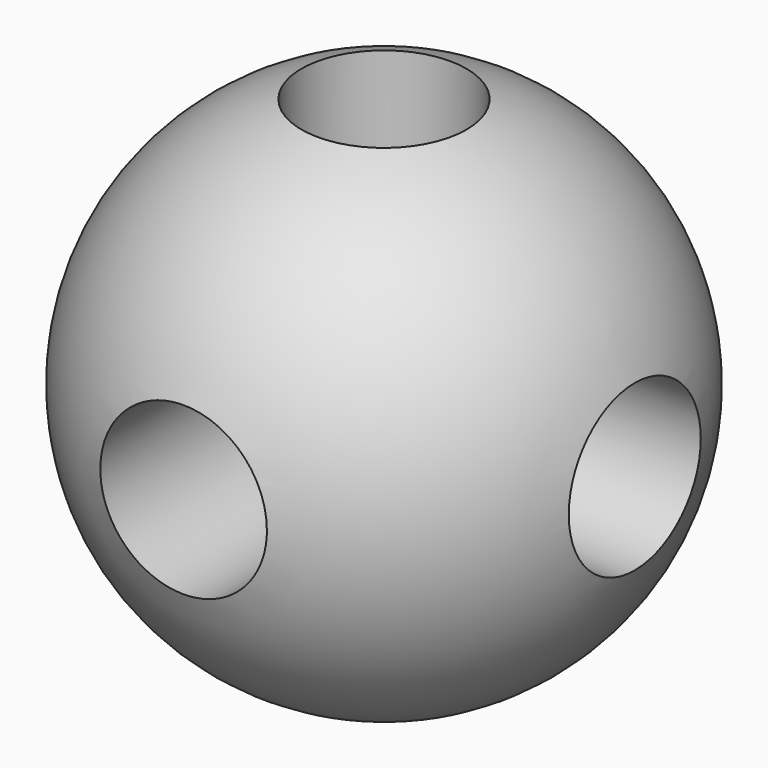
from build123d import *

# Parameters (mm, degrees)
F2_R     = 12.5
F3_DEPTH = 40
F4_R     = 12.619123
F5_DEPTH = 40
F6_R     = 12.5
F7_DEPTH = 40


with BuildPart() as f1:
    # F0 (on Front) → F1 (revolve)
    with BuildSketch(Plane.XZ):
        with BuildLine():
            Line((0, 40), (0, -40))
            ThreePointArc((0, -40), (40, 0), (0, 40))
        make_face()
    revolve(axis=Axis((0, 0, 0), (0, 0, -1)))

    # F2 (on Right) → F3 (cut, symmetric)
    with BuildSketch(Plane.YZ):
        Circle(F2_R)
    extrude(amount=F3_DEPTH, both=True, mode=Mode.SUBTRACT)

    # F4 (on Front) → F5 (cut, symmetric)
    with BuildSketch(Plane.XZ):
        Circle(F4_R)
    extrude(amount=F5_DEPTH, both=True, mode=Mode.SUBTRACT)

    # F6 (on Top) → F7 (cut, symmetric)
    with BuildSketch(Plane.XY):
        Circle(F6_R)
    extrude(amount=F7_DEPTH, both=True, mode=Mode.SUBTRACT)


solid = f1.part
